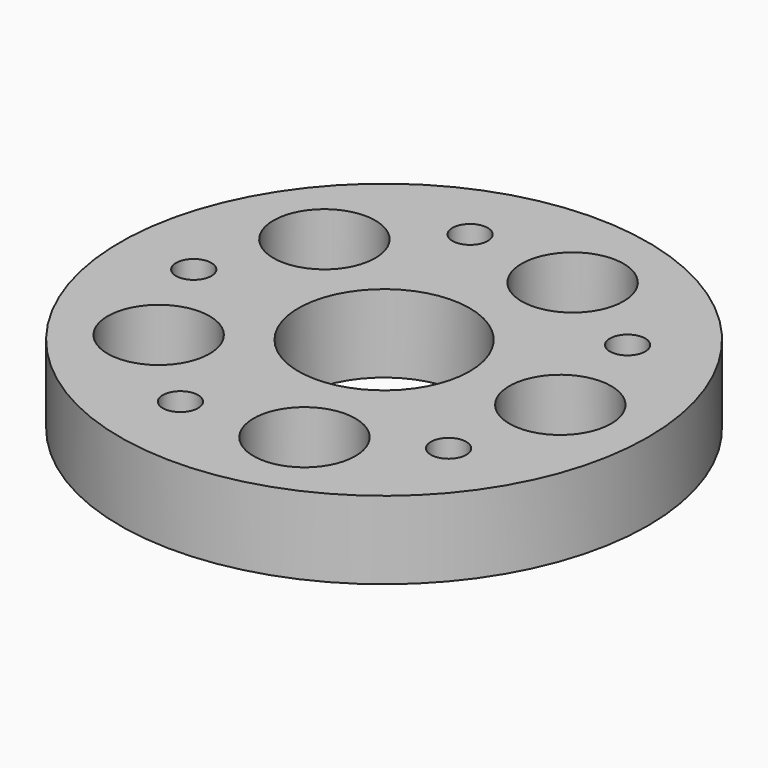
from build123d import *

# Parameters (mm, degrees)
SKETCH038_R           = 18.65
SKETCH038_R_2         = 6.05
PAD010_DEPTH          = 5.5
SKETCH039_R           = 3.6
SKETCH039_R_2         = 1.25
POCKET008_DEPTH       = 111.57324
POLARPATTERN001_COUNT = 5


with BuildPart() as part:
    # Sketch038 → Pad010 (new body)
    with BuildSketch(Plane.XY):
        Circle(SKETCH038_R)
        Circle(SKETCH038_R_2, mode=Mode.SUBTRACT)
    extrude(amount=PAD010_DEPTH)

    # Sketch039 → Pocket008 (cut, through all)
    with BuildSketch(Plane.XY):
        with Locations((12.45, 0)):
            Circle(SKETCH039_R)
        with Locations((10.881279, 7.905712)):
            Circle(SKETCH039_R_2)
    pocket008 = extrude(amount=POCKET008_DEPTH, mode=Mode.SUBTRACT)

    # PolarPattern001: Pocket008 ×5 about axis
    polarpattern001_axis = Axis((0, 0, 0), (0, 0, 1))
    for i in range(1, POLARPATTERN001_COUNT):
        add(pocket008.rotate(polarpattern001_axis, i * 360 / POLARPATTERN001_COUNT), mode=Mode.SUBTRACT)


with BuildPart() as part_1:
    # Body009 placement: moved
    add(part.part.moved(Location((0, 0, 15))))


solid = part_1.part
